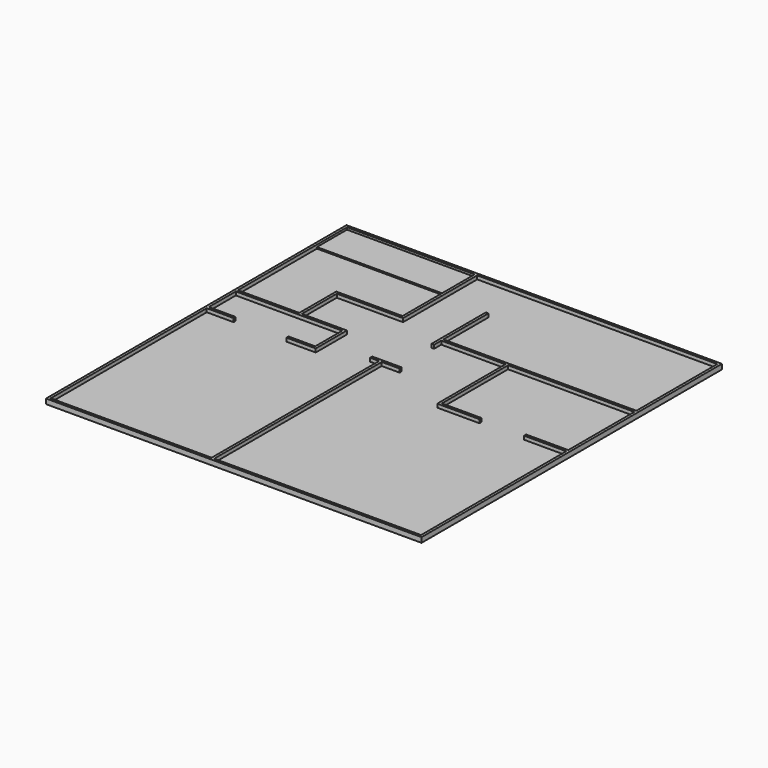
from build123d import *

# Parameters (mm, degrees)
F0_W     = 210
F0_H     = 210
F1_DEPTH = 0.8
F2_W     = 210
F2_H     = 210
F2_W_2   = 207.12
F2_H_2   = 207.12
F3_DEPTH = 2
F4_W     = 15
F4_H     = 1.44
F4_W_2   = 23.556538
F5_DEPTH = 2
F6_W     = 71.4
F6_H     = 21
F7_DEPTH = 0.8


with BuildPart() as f1:
    # F0 (on Top) → F1 (new body)
    with BuildSketch(Plane.XY):
        with Locations((105, 105)):
            Rectangle(F0_W, F0_H)
    extrude(amount=F1_DEPTH)

    # F2 (on face) → F3 (join)
    with BuildSketch(Plane.XY.offset(0.8)):
        with Locations((105, 105)):
            Rectangle(F2_W, F2_H)
        with Locations((105, 105)):
            Rectangle(F2_W_2, F2_H_2, mode=Mode.SUBTRACT)
    extrude(amount=F3_DEPTH)

    # F4 (on face) → F5 (join, through all)
    with BuildSketch(Plane.XY.offset(0.8)):
        Polygon((74.28, 156.72), (74.28, 208.56), (72.84, 208.56), (72.84, 158.16), (35.766923, 158.16), (35.766923, 132.3), (1.44, 132.3), (1.44, 130.86), (35.766923, 130.86), (60.966923, 130.86), (60.966923, 111.96), (45.966923, 111.96), (45.966923, 110.52), (62.406923, 110.52), (62.406923, 130.86), (62.406923, 132.3), (37.206923, 132.3), (37.206923, 156.72), align=None)
        with Locations((8.94, 111.24)):
            Rectangle(F4_W, F4_H)
        Polygon((208.56, 150.581538), (208.56, 152.021538), (100.56, 152.021538), (100.56, 183.56), (99.12, 183.56), (99.12, 145.581538), (100.56, 145.581538), (100.56, 150.581538), (136.446923, 150.581538), (136.446923, 102.941538), (160.003462, 102.941538), (160.003462, 104.381538), (137.886923, 104.381538), (137.886923, 150.581538), align=None)
        with Locations((196.781731, 103.661538)):
            Rectangle(F4_W_2, F4_H)
        Polygon((91.44, 1.44), (92.88, 1.44), (92.88, 118.555385), (102.88, 118.555385), (102.88, 119.995385), (86.44, 119.995385), (86.44, 118.555385), (91.44, 118.555385), align=None)
    extrude(amount=F5_DEPTH)

    # F6 (on face) → F7 (join)
    with BuildSketch(Plane.XY.offset(0.8)):
        with Locations((37.14, 198.06)):
            Rectangle(F6_W, F6_H)
    extrude(amount=F7_DEPTH)


solid = f1.part
